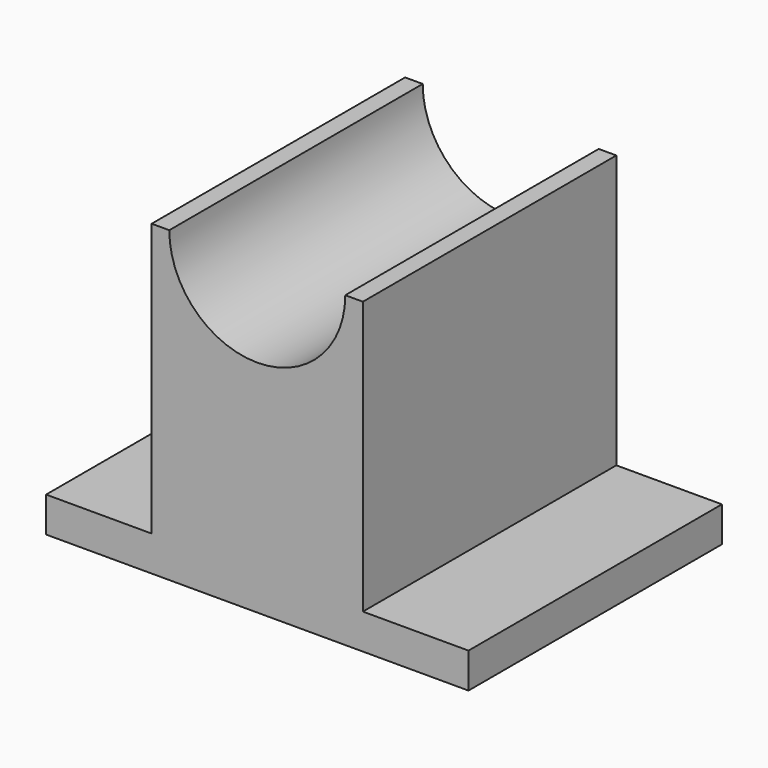
from build123d import *

# Parameters (mm, degrees)
F1_DEPTH = 114.3
F3_DEPTH = 114.3


with BuildPart() as f1:
    # F0 (on Front) → F1 (new body)
    with BuildSketch(Plane.XZ):
        Polygon((0, 12.7), (0, 0), (152.4, 0), (152.4, 12.7), (114.3, 12.7), (114.3, 111.125), (38.1, 111.125), (38.1, 12.7), align=None)
    extrude(amount=F1_DEPTH)

    # F2 (on face) → F3 (cut, through all)
    with BuildSketch(Plane.XZ.offset(114.3)):
        with BuildLine():
            Line((107.95, 111.125), (44.45, 111.125))
            ThreePointArc((44.45, 111.125), (76.2, 79.375), (107.95, 111.125))
        make_face()
    extrude(amount=-F3_DEPTH, mode=Mode.SUBTRACT)


solid = f1.part
